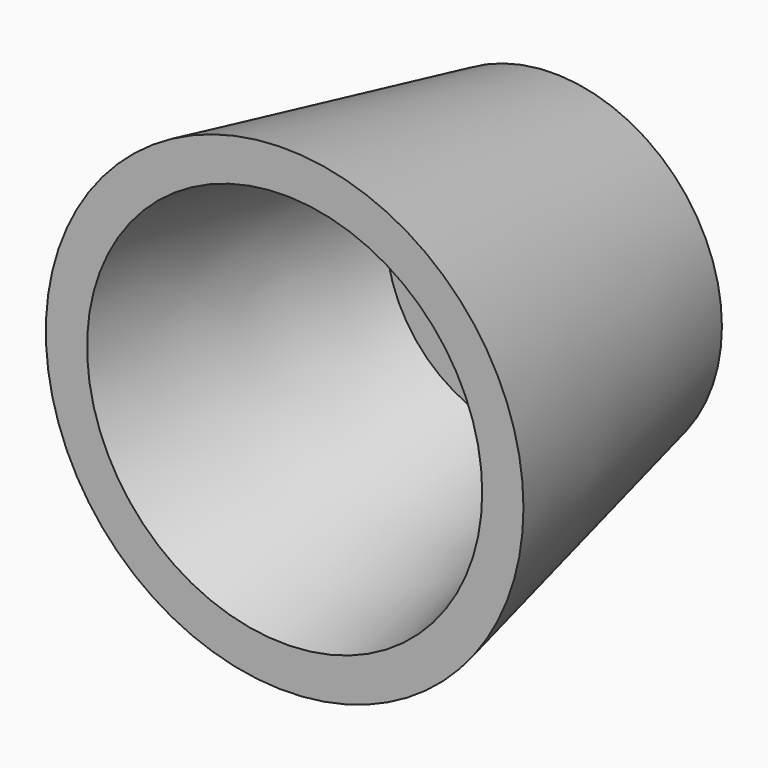
from build123d import *

# Parameters (mm, degrees)
F2_R = 17.75
F0_R = 12.5
F4_T = -3
F7_D = 3


with BuildPart() as f3:
    # F2 (on offset) → F3 section 0
    with BuildSketch(Plane.XZ.offset(25)):
        Circle(F2_R)
    # F0 (on Front) → F3 section 1
    with BuildSketch(Plane.XZ):
        Circle(F0_R)
    loft()

    # F4
    f4_openings = [f3.faces().sort_by_distance(p)[0] for p in [
        (0, -25, 0),
    ]]
    offset(amount=F4_T, openings=f4_openings, kind=Kind.INTERSECTION)

    # F7 (through all)
    with Locations(Plane(origin=(0, 0, 0), x_dir=(-1, 0, 0), z_dir=(0, 1, 0))):
        with Locations((0, 0)):
            Hole(F7_D / 2)


solid = f3.part
